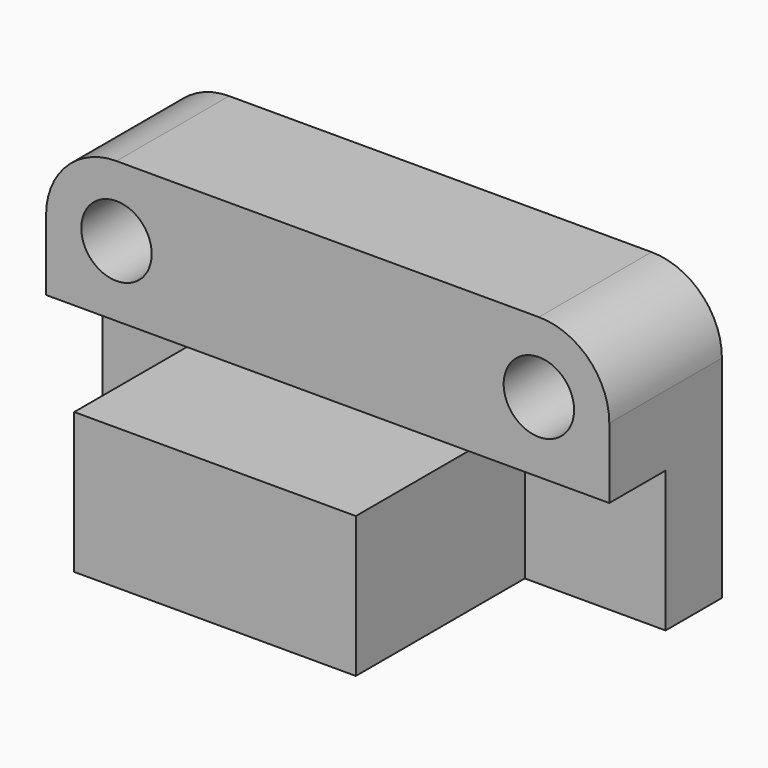
from build123d import *

# Parameters (mm, degrees)
F0_W      = 101.6
F0_H      = 50.8
F1_DEPTH  = 101.6
F2_W      = 101.6
F2_H      = 50.8
F3_DEPTH  = 50.8
F4_W      = 25.4
F4_H      = 50.8
F5_DEPTH  = 50.8
F7_DEPTH  = 50.8
F8_R      = 25.4
F9_W      = 25.4
F9_H      = 50.8
F10_DEPTH = 50.8
F12_DEPTH = 50.8
F13_R     = 25.4
F14_R     = 12.7
F15_DEPTH = 101.6
F16_R     = 12.7
F17_DEPTH = 101.6


with BuildPart() as f1:
    # F0 (on Front) → F1 (new body)
    with BuildSketch(Plane.XZ):
        with Locations((50.8, 25.4)):
            Rectangle(F0_W, F0_H)
    extrude(amount=F1_DEPTH)

    # F2 (on face) → F3 (join)
    with BuildSketch(Plane.XY.offset(50.8)):
        with Locations((50.8, -25.4)):
            Rectangle(F2_W, F2_H)
    extrude(amount=F3_DEPTH)

    # F4 (on face) → F5 (join)
    with BuildSketch(Plane.YZ.offset(101.6)):
        with Locations((-12.7, 25.4)):
            Rectangle(F4_W, F4_H)
    extrude(amount=F5_DEPTH)

    # F6 (on face) → F7 (join)
    with BuildSketch(Plane.YZ.offset(101.6)):
        Polygon((0, 50.8), (0, 101.6), (-50.8, 101.6), (-50.8, 50.8), (-25.4, 50.8), align=None)
    extrude(amount=F7_DEPTH)

    # F8
    f8_edges = [f1.edges().sort_by_distance(p)[0] for p in [
        (152.4, -25.4, 101.6),
    ]]
    fillet(f8_edges, radius=F8_R)

    # F9 (on face) → F10 (join)
    with BuildSketch(Plane(origin=(0, 0, 0), x_dir=(0, -1, 0), z_dir=(-1, 0, 0))):
        with Locations((12.7, 25.4)):
            Rectangle(F9_W, F9_H)
    extrude(amount=F10_DEPTH)

    # F11 (on face) → F12 (join)
    with BuildSketch(Plane(origin=(0, 0, 0), x_dir=(0, -1, 0), z_dir=(-1, 0, 0))):
        Polygon((50.8, 101.6), (0, 101.6), (0, 50.8), (25.4, 50.8), (50.8, 50.8), align=None)
    extrude(amount=F12_DEPTH)

    # F13
    f13_edges = [f1.edges().sort_by_distance(p)[0] for p in [
        (-50.8, -25.4, 101.6),
    ]]
    fillet(f13_edges, radius=F13_R)

    # F14 (on face) → F15 (cut)
    with BuildSketch(Plane.XZ.offset(50.8)):
        with Locations((-25.4, 76.2)):
            Circle(F14_R)
    extrude(amount=-F15_DEPTH, mode=Mode.SUBTRACT)

    # F16 (on face) → F17 (cut)
    with BuildSketch(Plane.XZ.offset(50.8)):
        with Locations((127, 76.2)):
            Circle(F16_R)
    extrude(amount=-F17_DEPTH, mode=Mode.SUBTRACT)


solid = f1.part
